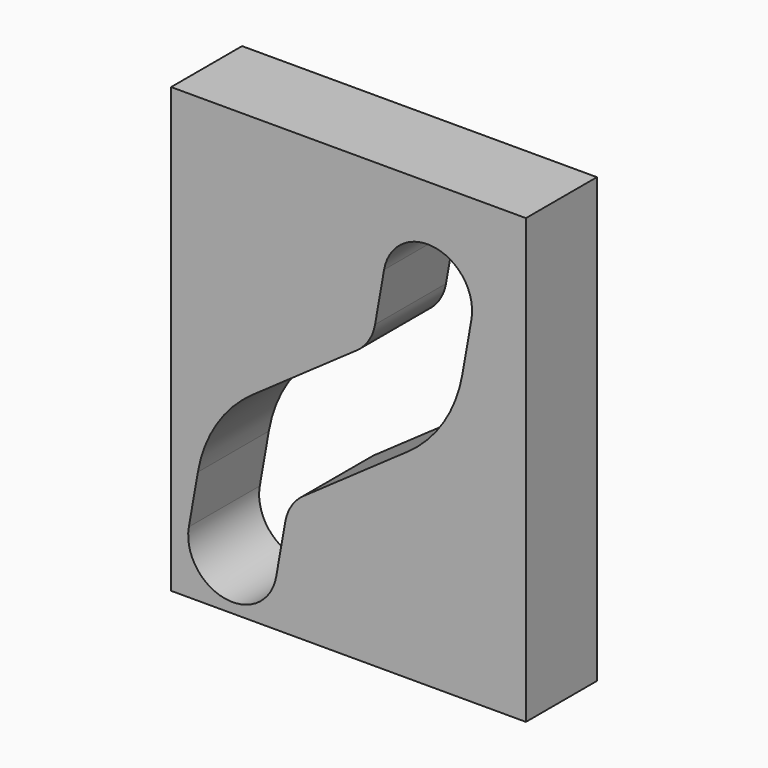
from build123d import *

# Parameters (mm, degrees)
F0_W     = 40
F0_H     = 50
F1_DEPTH = 10
F3_DEPTH = 10.001


with BuildPart() as f1:
    # F0 (on Front) → F1 (new body)
    with BuildSketch(Plane.XZ):
        with Locations((20, 25)):
            Rectangle(F0_W, F0_H)
    extrude(amount=F1_DEPTH)

    # F2 (on face) → F3 (cut, through all)
    with BuildSketch(Plane.XZ.offset(10)):
        with BuildLine():
            Line((3.017207, 12.76887), (2, 7))
            ThreePointArc((2, 7), (6.055798, 1.20772), (11.848078, 5.263518))
            Line((11.848078, 5.263518), (12.865285, 11.032388))
            ThreePointArc((12.865285, 11.032388), (13.572367, 12.850646), (14.921442, 14.259908))
            Line((14.921442, 14.259908), (26.670659, 22.486798))
            ThreePointArc((26.670659, 22.486798), (30.717884, 26.714585), (32.839129, 32.169356))
            Line((32.839129, 32.169356), (33.856336, 37.938226))
            ThreePointArc((33.856336, 37.938226), (29.800538, 43.730506), (24.008258, 39.674708))
            Line((24.008258, 39.674708), (22.991051, 33.905838))
            ThreePointArc((22.991051, 33.905838), (22.283969, 32.087581), (20.934894, 30.678319))
            Line((20.934894, 30.678319), (9.185677, 22.451428))
            ThreePointArc((9.185677, 22.451428), (5.138452, 18.223642), (3.017207, 12.76887))
        make_face()
    extrude(amount=-F3_DEPTH, mode=Mode.SUBTRACT)


solid = f1.part
